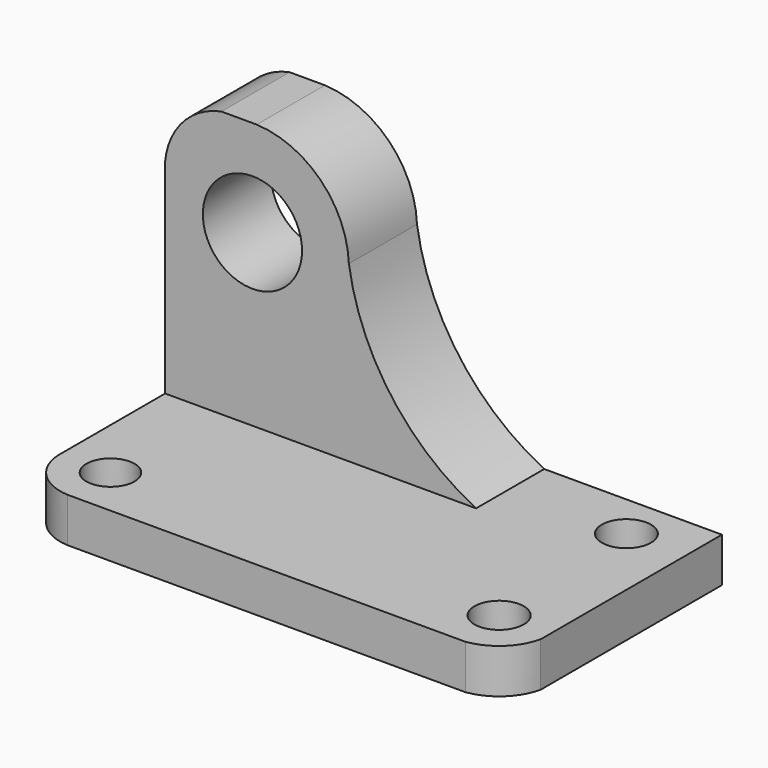
from build123d import *

# Parameters (mm, degrees)
F0_W      = 69.85
F0_H      = 44.45
F1_DEPTH  = 38.1
F3_DEPTH  = 44.451
F5_DEPTH  = 31.75
F6_DEPTH  = 5.08
F7_DEPTH  = 6.35
F8_DEPTH  = 5.08
F10_DEPTH = 12.1779236892
F11_R     = 7.0905060621
F12_DEPTH = 25.9240763108
F13_DEPTH = 38.102
F14_R     = 3.5131163542
F14_R_2   = 3.5285454021
F14_R_3   = 3.4395422414
F15_DEPTH = 6.351


with BuildPart() as f1:
    # F0 (on Front) → F1 (new body)
    with BuildSketch(Plane.XZ):
        with Locations((-9.9012593745, 22.225)):
            Rectangle(F0_W, F0_H)
    extrude(amount=F1_DEPTH)

    # F2 (on face) → F3 (cut, through all)
    with BuildSketch(Plane.XY.offset(44.45)):
        with BuildLine():
            ThreePointArc((-38.0205141645, -38.1), (-42.7526228642, -35.9796762697), (-44.8262593745, -31.2269236892))
            Line((-44.8262593745, -31.2269236892), (-44.8262593745, -38.1))
            Line((-44.8262593745, -38.1), (-38.0205141645, -38.1))
        make_face()
        with BuildLine():
            ThreePointArc((25.0237406255, -32.3781482875), (22.8273562196, -36.1989998927), (18.8512764871, -38.1))
            Line((18.8512764871, -38.1), (25.0237406255, -38.1))
            Line((25.0237406255, -38.1), (25.0237406255, -32.3781482875))
        make_face()
    extrude(amount=-F3_DEPTH, mode=Mode.SUBTRACT)

    # F4 (on face) → F5 (cut)
    with BuildSketch(Plane.XY.offset(44.45)):
        with BuildLine():
            Line((-0.3762593745, -12.1769236892), (-44.8262593745, -12.1769236892))
            Line((-44.8262593745, -12.1769236892), (-44.8262593745, -31.2269236892))
            ThreePointArc((-44.8262593745, -31.2269236892), (-42.7526228642, -35.9796762697), (-38.0205141645, -38.1))
            Line((-38.0205141645, -38.1), (18.8512764871, -38.1))
            ThreePointArc((18.8512764871, -38.1), (22.8273562196, -36.1989998927), (25.0237406255, -32.3781482875))
            Line((25.0237406255, -32.3781482875), (25.0237406255, 0))
            Line((25.0237406255, 0), (-0.3762593745, 0))
            Line((-0.3762593745, 0), (-0.3762593745, -12.1769236892))
        make_face()
    extrude(amount=-F5_DEPTH, mode=Mode.SUBTRACT)

    # F6 (add): a face of the model
    f6_faces = [f1.faces().sort_by_distance(p)[0] for p in [
        (-6.6136162869, -22.2162080718, 12.7),
    ]]
    extrude(f6_faces, amount=F6_DEPTH)

    # F7 (cut): a face of the model
    f7_faces = [f1.faces().sort_by_distance(p)[0] for p in [
        (-6.6136162869, -22.2162080718, 17.78),
    ]]
    extrude(f7_faces, amount=-F7_DEPTH, mode=Mode.SUBTRACT)

    # F8 (cut): a face of the model
    f8_faces = [f1.faces().sort_by_distance(p)[0] for p in [
        (-6.6136162869, -22.2162080718, 11.43),
    ]]
    extrude(f8_faces, amount=-F8_DEPTH, mode=Mode.SUBTRACT)

    # F9 (on face) → F10 (cut, through all)
    with BuildSketch(Plane.XZ.offset(12.1769236892)):
        with BuildLine():
            ThreePointArc((-44.8262593745, 35.5440117419), (-42.2872783605, 41.3383758962), (-36.7792046519, 44.45))
            Line((-36.7792046519, 44.45), (-44.8262593745, 44.45))
            Line((-44.8262593745, 44.45), (-44.8262593745, 35.5440117419))
        make_face()
        with BuildLine():
            Line((-0.3762593745, 44.45), (-31.7305137767, 44.45))
            ThreePointArc((-31.7305137767, 44.45), (-22.5706200379, 40.403916894), (-18.5634717345, 31.2269236892))
            ThreePointArc((-18.5634717345, 31.2269236892), (-12.5199705056, 16.5585677002), (-0.3762593745, 6.35))
            Line((-0.3762593745, 6.35), (-0.3762593745, 44.45))
        make_face()
    extrude(amount=-F10_DEPTH, mode=Mode.SUBTRACT)

    # F11 (on face) → F12 (join, through all)
    with BuildSketch(Plane.XZ.offset(12.1769236892)):
        with Locations((-32.3421357847, 30.6738090409)):
            Circle(F11_R)
    extrude(amount=F12_DEPTH)

    # F13 (cut, through all): a face of the model
    f13_faces = [f1.faces().sort_by_distance(p)[0] for p in [
        (-32.3421357847, -38.101, 30.6738090409),
    ]]
    extrude(f13_faces, amount=-F13_DEPTH, mode=Mode.SUBTRACT)

    # F14 (on face) → F15 (cut, through all)
    with BuildSketch(Plane.XY.offset(6.35)):
        with Locations((16.5488310158, -6.4756297506)):
            Circle(F14_R)
        with Locations((17.7833885895, -30.7578051752)):
            Circle(F14_R_2)
        with Locations((-37.6456809362, -30.9227637617)):
            Circle(F14_R_3)
    extrude(amount=-F15_DEPTH, mode=Mode.SUBTRACT)


solid = f1.part
